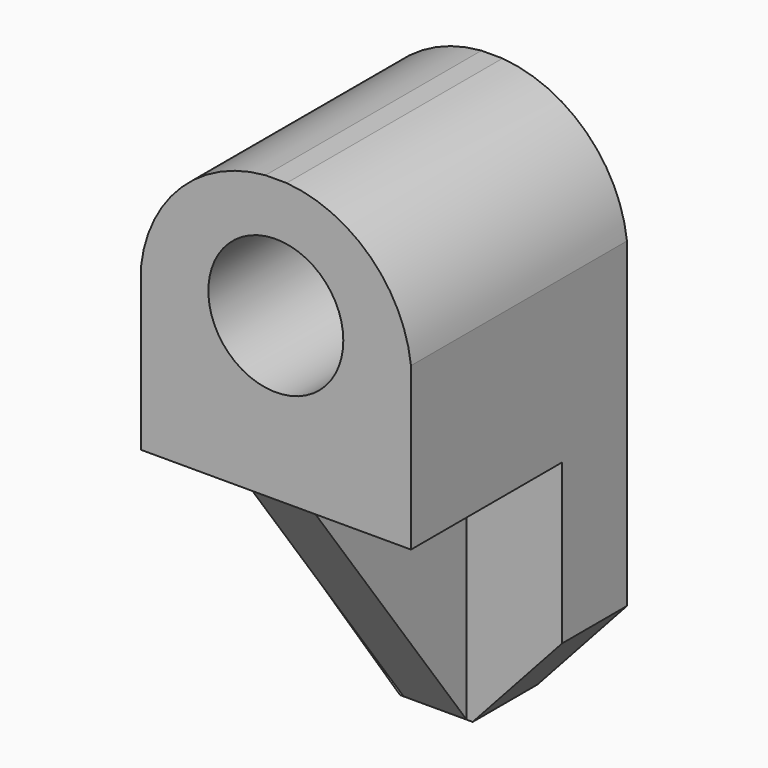
from build123d import *

# Parameters (mm, degrees)
F0_W     = 762
F0_H     = 1524
F1_DEPTH = 762
F4_DEPTH = 762.001
F5_DEPTH = 762.001
F6_DEPTH = 533.4
F8_DEPTH = 447.422


with BuildPart() as f1:
    # F0 (on Front) → F1 (new body)
    with BuildSketch(Plane.XZ):
        with Locations((381, -762)):
            Rectangle(F0_W, F0_H)
    extrude(amount=F1_DEPTH)

    # F3 (on face) + F2 (on face) → F4 (cut, through all)
    with BuildSketch(Plane.XZ.offset(762)):
        Polygon((762, -1246.666074), (509.469922, -1524), (762, -1524), align=None)
        Polygon((304.574043, -1524), (0, -1246.666074), (0, -1524), align=None)
    with BuildSketch(Plane.XZ.offset(762)):
        with BuildLine():
            Line((762, 0), (410.814423, 0))
            ThreePointArc((410.814423, 0), (647.486394, -106.600051), (762, -339.546025))
            Line((762, -339.546025), (762, 0))
        make_face()
        with BuildLine():
            Line((0, 0), (0, -339.546025))
            ThreePointArc((0, -339.546025), (114.513606, -106.600051), (351.185577, 0))
            Line((351.185577, 0), (0, 0))
        make_face()
    extrude(amount=-F4_DEPTH, mode=Mode.SUBTRACT)

    # F2 (on face) → F5 (cut, through all)
    with BuildSketch(Plane.XZ.offset(762)):
        with BuildLine():
            Line((380.433679, -339.546025), (189.933679, -339.546025))
            ThreePointArc((189.933679, -339.546025), (380.433679, -530.046025), (570.933679, -339.546025))
            Line((570.933679, -339.546025), (380.433679, -339.546025))
        make_face()
        with BuildLine():
            ThreePointArc((570.933679, -339.546025), (380.433679, -149.046025), (189.933679, -339.546025))
            Line((189.933679, -339.546025), (380.433679, -339.546025))
            Line((380.433679, -339.546025), (570.933679, -339.546025))
        make_face()
    extrude(amount=-F5_DEPTH, mode=Mode.SUBTRACT)

    # F2 (on face) → F6 (cut)
    with BuildSketch(Plane.XZ.offset(762)):
        Polygon((492.379, -796.746025), (492.379, -1524), (533.4, -1524), (762, -1524), (762, -1382.540822), (762, -796.746025), align=None)
        Polygon((0, -796.746025), (0, -1524), (228.6, -1524), (314.579, -1524), (314.579, -796.746025), align=None)
    extrude(amount=-F6_DEPTH, mode=Mode.SUBTRACT)

    # F7 (on face) → F8 (cut, through all)
    with BuildSketch(Plane(origin=(314.579, 0, 0), x_dir=(0, -1, 0), z_dir=(-1, 0, 0))):
        Polygon((762, -1524), (762, -796.746025), (228.6, -1524), align=None)
    extrude(amount=-F8_DEPTH, mode=Mode.SUBTRACT)


solid = f1.part
